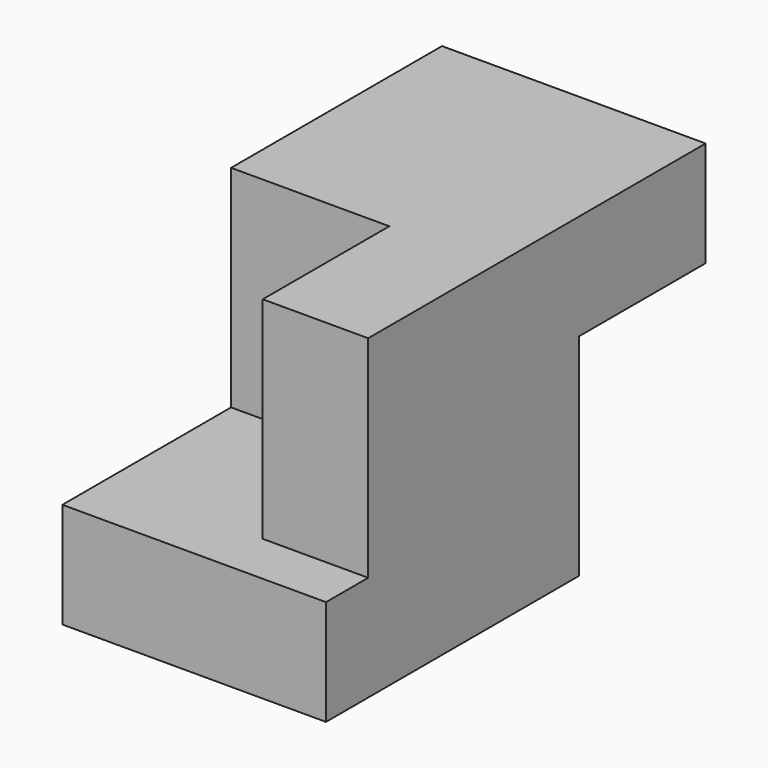
from build123d import *

# Parameters (mm, degrees)
F1_DEPTH = 63.5
F2_W     = 25.4
F2_H     = 50.8
F3_DEPTH = 38.1


with BuildPart() as f1:
    # F0 (on Right) → F1 (new body)
    with BuildSketch(Plane.YZ):
        Polygon((45.754913, 20.27562), (45.754913, 45.67562), (-17.745087, 45.67562), (-17.745087, -5.12438), (-68.545087, -5.12438), (-68.545087, -30.52438), (7.654913, -30.52438), (7.654913, 20.27562), align=None)
    extrude(amount=F1_DEPTH)

    # F2 (on face) → F3 (join)
    with BuildSketch(Plane.XZ.offset(17.745087)):
        with Locations((50.8, 20.27562)):
            Rectangle(F2_W, F2_H)
    extrude(amount=F3_DEPTH)


solid = f1.part
